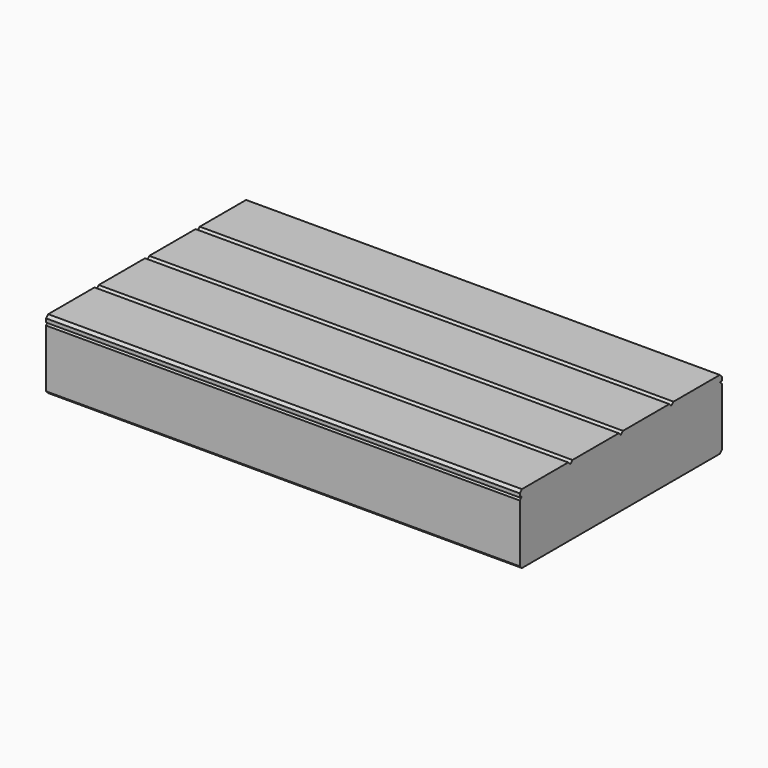
from build123d import *

# Parameters (mm, degrees)
F0_W      = 900
F0_H      = 480
F1_DEPTH  = 12
F3_DEPTH  = 900.001
F4_W      = 900
F4_H      = 12
F5_DEPTH  = 120
F6_W      = 900
F6_H      = 12
F7_DEPTH  = 120
F8_W      = 12
F8_H      = 456
F9_DEPTH  = 120
F10_W     = 12
F10_H     = 456
F11_DEPTH = 120
F13_DEPTH = 900.001
F15_DEPTH = 900.001


with BuildPart() as f1:
    # F0 (on Top) → F1 (new body)
    with BuildSketch(Plane.XY):
        with Locations((393.5734190047, 233.7786073424)):
            Rectangle(F0_W, F0_H)
    extrude(amount=F1_DEPTH)

    # F2 (on face) → F3 (cut, through all)
    with BuildSketch(Plane.YZ.offset(843.5734190047)):
        Polygon((-1.2213926576, 12), (-6.2213926576, 12), (-6.2213926576, 7), align=None)
        Polygon((118.7786073424, 12), (113.7786073424, 12), (108.7786073424, 12), (113.7786073424, 7), align=None)
        Polygon((238.7786073424, 12), (233.7786073424, 12), (228.7786073424, 12), (233.7786073424, 7), align=None)
        Polygon((358.7786073424, 12), (353.7786073424, 12), (348.7786073424, 12), (353.7786073424, 7), align=None)
        Polygon((473.7786073424, 7), (473.7786073424, 12), (468.7786073424, 12), align=None)
    extrude(amount=-F3_DEPTH, mode=Mode.SUBTRACT)

    # F4 (on face) → F5 (join)
    with BuildSketch(Plane(origin=(0, 0, 0), x_dir=(1, 0, 0), z_dir=(0, 0, -1))):
        with Locations((393.5734190047, -467.7786073424)):
            Rectangle(F4_W, F4_H)
    extrude(amount=F5_DEPTH)

    # F6 (on face) → F7 (join)
    with BuildSketch(Plane(origin=(0, 0, 0), x_dir=(1, 0, 0), z_dir=(0, 0, -1))):
        with Locations((393.5734190047, 0.2213926576)):
            Rectangle(F6_W, F6_H)
    extrude(amount=F7_DEPTH)

    # F8 (on face) → F9 (join)
    with BuildSketch(Plane(origin=(0, 0, 0), x_dir=(1, 0, 0), z_dir=(0, 0, -1))):
        with Locations((-50.4265809953, -233.7786073424)):
            Rectangle(F8_W, F8_H)
    extrude(amount=F9_DEPTH)

    # F10 (on face) → F11 (join)
    with BuildSketch(Plane(origin=(0, 0, 0), x_dir=(1, 0, 0), z_dir=(0, 0, -1))):
        with Locations((837.5734190047, -233.7786073424)):
            Rectangle(F10_W, F10_H)
    extrude(amount=F11_DEPTH)

    # F12 (on face) → F13 (cut, through all)
    with BuildSketch(Plane.YZ.offset(843.5734190047)):
        Polygon((-1.2213926576, 0), (-6.2213926576, 0), (-6.2213926576, -5), align=None)
        Polygon((-6.2213926576, -115), (-6.2213926576, -120), (-1.2213926576, -120), align=None)
    extrude(amount=-F13_DEPTH, mode=Mode.SUBTRACT)

    # F14 (on face) → F15 (cut, through all)
    with BuildSketch(Plane(origin=(-56.4265809953, 0, 0), x_dir=(0, -1, 0), z_dir=(-1, 0, 0))):
        Polygon((-468.7786073424, 0), (-473.7786073424, 0), (-473.7786073424, -5), align=None)
        Polygon((-473.7786073424, -115), (-473.7786073424, -120), (-468.7786073424, -120), align=None)
    extrude(amount=-F15_DEPTH, mode=Mode.SUBTRACT)


solid = f1.part
